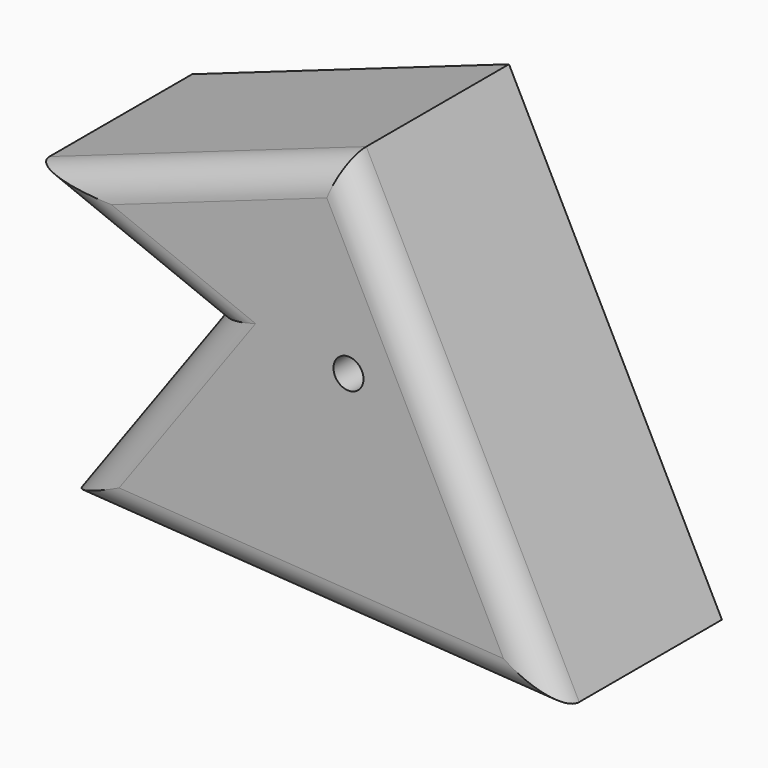
from build123d import *

# Parameters (mm, degrees)
F1_DEPTH = 34.79205
F2_R     = 5.08
F4_D     = 5
F4_DEPTH = 12.7
F4_TIP   = 1.5021515476


with BuildPart() as f1:
    # F0 (on Front) → F1 (new body)
    with BuildSketch(Plane.XZ):
        Polygon((8.8970496238, 50.7587020687), (-43.8900001305, 32.1299992502), (-13.4100001305, 19.8900010437), (-37.7099998295, -13.7700010091), (44.3699993193, -19.1700011492), align=None)
    extrude(amount=F1_DEPTH)

    # F2
    f2_edges = [f1.edges().sort_by_distance(p)[0] for p in [
        (-17.496475, -34.79205, 41.444351),
        (26.633524, -34.79205, 15.79435),
        (3.33, -34.79205, -16.470001),
        (-25.56, -34.79205, 3.06),
        (-28.65, -34.79205, 26.01),
    ]]
    fillet(f2_edges, radius=F2_R)

    # F4
    with Locations(Plane.XZ.offset(34.79205)):
        with Locations((9.9899992347, 19.8900010437)):
            Hole(F4_D / 2, depth=F4_DEPTH)
            with Locations((0, 0, -(F4_DEPTH + F4_TIP / 2))):  # 118° drill point
                Cone(0, F4_D / 2, F4_TIP, mode=Mode.SUBTRACT)


solid = f1.part
